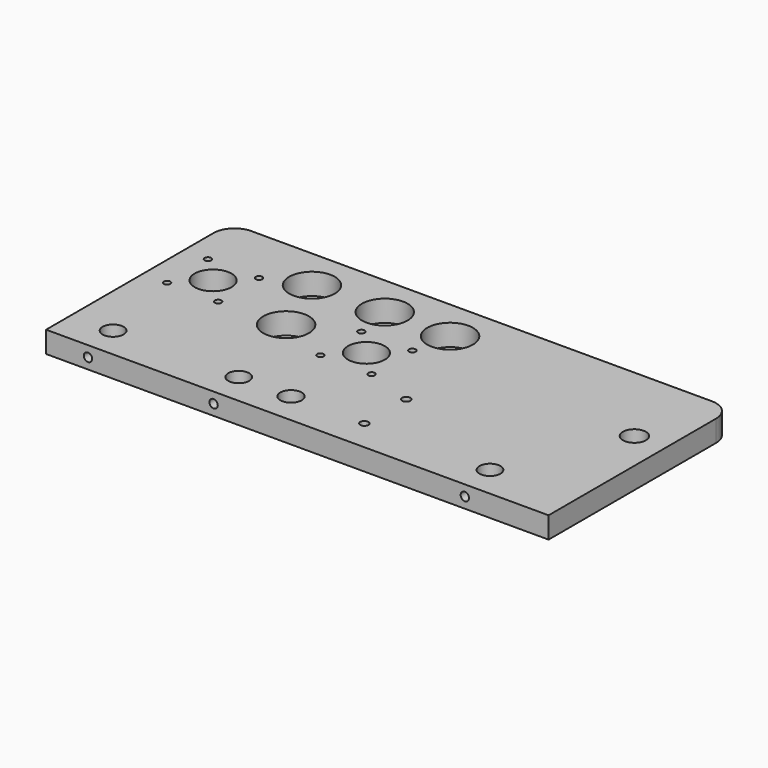
from build123d import *

# Parameters (mm, degrees)
SKETCH001_R   = 6.985
SKETCH001_R_2 = 11.176
SKETCH001_R_3 = 6.35
SKETCH001_R_4 = 6.477
SKETCH001_R_5 = 2
SKETCH001_R_6 = 2.5
SKETCH001_R_7 = 13.85
PAD_DEPTH     = 12.999999
SKETCH_R      = 2.54
POCKET_DEPTH  = 20.32


with BuildPart() as part:
    # Sketch001 → Pad (new body)
    with BuildSketch(Plane.XY):
        with BuildLine():
            Line((0, 0), (304.8, 0))
            Line((304.8, 127), (304.8, 0))
            ThreePointArc((304.8, 127), (301.080256, 135.980256), (292.1, 139.7))
            Line((12.7, 139.7), (292.1, 139.7))
            ThreePointArc((12.7, 139.7), (3.719744, 135.980256), (0, 127))
            Line((0, 0), (0, 127))
        make_face()
        with Locations((285.75, 88.9)):
            Circle(SKETCH001_R, mode=Mode.SUBTRACT)
        with Locations((133.35, 76.2)):
            Circle(SKETCH001_R_2, mode=Mode.SUBTRACT)
        with Locations((25.4, 19.05)):
            Circle(SKETCH001_R_3, mode=Mode.SUBTRACT)
        with Locations((101.6, 19.05)):
            Circle(SKETCH001_R_3, mode=Mode.SUBTRACT)
        with Locations((254, 19.05)):
            Circle(SKETCH001_R_3, mode=Mode.SUBTRACT)
        with Locations((133.35, 19.05)):
            Circle(SKETCH001_R_4, mode=Mode.SUBTRACT)
        with Locations((30.1625, 88.9)):
            Circle(SKETCH001_R_2, mode=Mode.SUBTRACT)
        with Locations((14.6625, 73.4)):
            Circle(SKETCH001_R_5, mode=Mode.SUBTRACT)
        with Locations((45.6625, 104.4)):
            Circle(SKETCH001_R_5, mode=Mode.SUBTRACT)
        with Locations((45.6625, 73.4)):
            Circle(SKETCH001_R_5, mode=Mode.SUBTRACT)
        with Locations((14.6625, 104.4)):
            Circle(SKETCH001_R_5, mode=Mode.SUBTRACT)
        with Locations((117.85, 91.7)):
            Circle(SKETCH001_R_5, mode=Mode.SUBTRACT)
        with Locations((148.85, 91.7)):
            Circle(SKETCH001_R_5, mode=Mode.SUBTRACT)
        with Locations((117.85, 60.7)):
            Circle(SKETCH001_R_5, mode=Mode.SUBTRACT)
        with Locations((148.85, 60.7)):
            Circle(SKETCH001_R_5, mode=Mode.SUBTRACT)
        with Locations((177.8, 19.05)):
            Circle(SKETCH001_R_6, mode=Mode.SUBTRACT)
        with Locations((177.8, 50.8)):
            Circle(SKETCH001_R_6, mode=Mode.SUBTRACT)
        with Locations((69.85, 114.3)):
            Circle(SKETCH001_R_7, mode=Mode.SUBTRACT)
        with Locations((85.588112, 75.00004)):
            Circle(SKETCH001_R_7, mode=Mode.SUBTRACT)
        with Locations((114.000062, 114.3)):
            Circle(SKETCH001_R_7, mode=Mode.SUBTRACT)
        with Locations((153.610092, 114.3)):
            Circle(SKETCH001_R_7, mode=Mode.SUBTRACT)
    extrude(amount=PAD_DEPTH)

    # Sketch → Pocket (cut)
    with BuildSketch(Plane.XZ):
        with Locations((25.4, 6.5)):
            Circle(SKETCH_R)
        with Locations((101.6, 6.5)):
            Circle(SKETCH_R)
        with Locations((254, 6.5)):
            Circle(SKETCH_R)
    extrude(amount=-POCKET_DEPTH, mode=Mode.SUBTRACT)


solid = part.part
